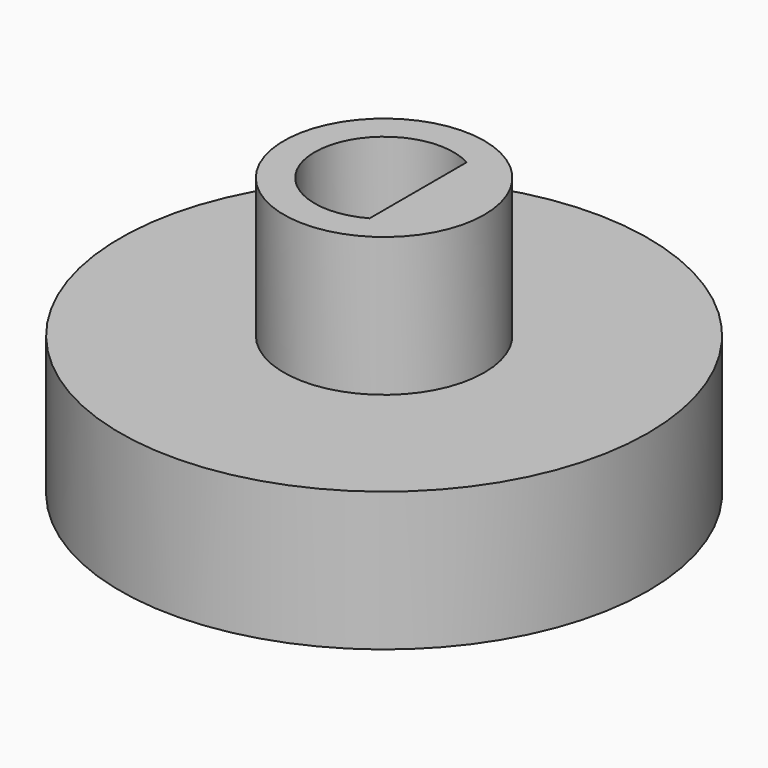
from build123d import *

# Parameters (mm, degrees)
F0_R      = 7.213779
F1_DEPTH  = 10
F2_DEPTH  = 10
F3_R      = 19
F4_DEPTH  = 10
F7_DEPTH  = 2.5
F8_DEPTH  = 2.5
F9_R      = 20.252872
F10_DEPTH = 20.822358


with BuildPart() as f1:
    # F0 (on Top) → F1 (new body)
    with BuildSketch(Plane.XY):
        Circle(F0_R)
        with BuildLine():
            ThreePointArc((2.448212, 4.359617), (4.315151, 2.525761), (5, 0))
            ThreePointArc((5, 0), (4.315151, -2.525761), (2.448212, -4.359617))
            ThreePointArc((2.448212, -4.359617), (-5, 0), (2.448212, 4.359617))
        make_face(mode=Mode.SUBTRACT)
    extrude(amount=F1_DEPTH)

    # F0 (on Top) → F2 (join)
    with BuildSketch(Plane.XY):
        with BuildLine():
            ThreePointArc((2.448212, -4.359617), (4.315151, -2.525761), (5, 0))
            ThreePointArc((5, 0), (4.315151, 2.525761), (2.448212, 4.359617))
            Line((2.448212, 4.359617), (2.448212, -4.359617))
        make_face()
    extrude(amount=F2_DEPTH)

    # F3 (on Top) → F4 (join)
    with BuildSketch(Plane.XY):
        Circle(F3_R)
    extrude(amount=-F4_DEPTH)

    # F5 (on Front) → F6 (revolve, cut)
    with BuildSketch(Plane.XZ):
        with BuildLine():
            Line((0, -30.822358), (0, -0.822358))
            ThreePointArc((0, -0.822358), (-15, -15.822358), (0, -30.822358))
        make_face()
    revolve(axis=Axis((0, 0, -15.822358), (0, 0, -1)), mode=Mode.SUBTRACT)

    # F5 (on Front) → F7 (join)
    with BuildSketch(Plane.XZ):
        with BuildLine():
            ThreePointArc((0, -30.822358), (10.606602, -26.42896), (15, -15.822358))
            ThreePointArc((15, -15.822358), (10.606602, -5.215757), (0, -0.822358))
            Line((0, -0.822358), (0, -30.822358))
        make_face()
        with BuildLine():
            Line((0, -30.822358), (0, -0.822358))
            ThreePointArc((0, -0.822358), (-15, -15.822358), (0, -30.822358))
        make_face()
    extrude(amount=F7_DEPTH)

    # F7_face (on face) → F8 (join)
    with BuildSketch(Plane(origin=(0, 0, -15.822358), x_dir=(1, 0, 0), z_dir=(0, 1, 0))):
        with BuildLine():
            ThreePointArc((-13.823898, -5.822358), (-8.296524, -12.496707), (0, -15))
            ThreePointArc((0, -15), (8.296524, -12.496707), (13.823898, -5.822358))
            ThreePointArc((13.823898, -5.822358), (0, 15), (-13.823898, -5.822358))
        make_face()
    extrude(amount=F8_DEPTH)

    # F9 (on face) → F10 (cut, through all)
    with BuildSketch(Plane(origin=(0, 0, -10), x_dir=(1, 0, 0), z_dir=(0, 0, -1))):
        Circle(F9_R)
    extrude(amount=F10_DEPTH, mode=Mode.SUBTRACT)


solid = f1.part
